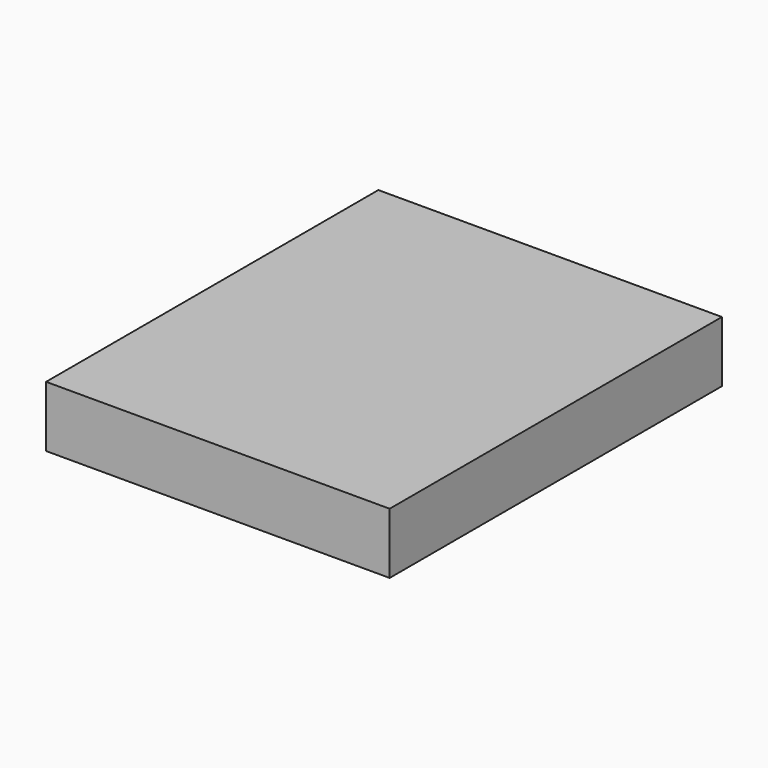
from build123d import *

# Parameters (mm, degrees)
F1_W     = 87.265998
F1_H     = 105.481632
F2_DEPTH = 15.480507


with BuildPart() as f2:
    # F1 (on face) → F2 (new body)
    with BuildSketch(Plane.XY):
        Rectangle(F1_W, F1_H)
    extrude(amount=F2_DEPTH)


solid = f2.part
